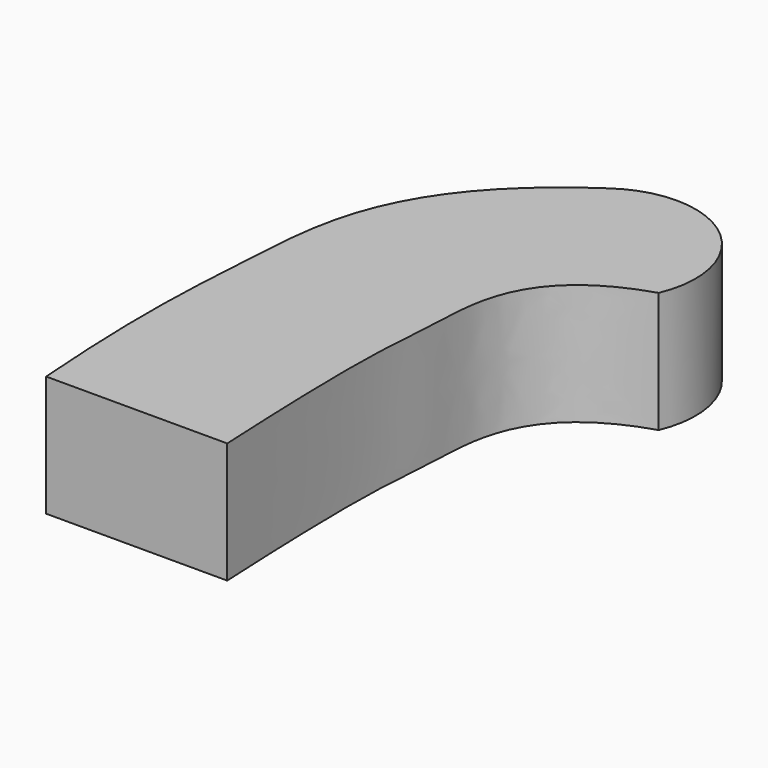
from build123d import *

# Parameters (mm, degrees)
F1_DEPTH = 10


with BuildPart() as f1:
    # F0 (on Top) → F1 (new body)
    with BuildSketch(Plane.XY):
        with BuildLine():
            add(Edge.make_bspline(
                [(-53.6405071616, -21.6123681407), (-54.4413431005, -10.5554619524), (-53.5350097592, -0.9298606358), (-52.9490545808, 14.0803806376), (-41.7034897648, 21.6861946821)],
                knots=[0, 0, 0, 0, 0.4830390059, 1, 1, 1, 1], degree=3))
            Line((-53.6405071616, -21.6123681407), (-38.6405071616, -21.6123681407))
            add(Edge.make_bspline(
                [(-30.0211123594, 12.2775785161), (-38.6405071616, 9.5786619931), (-38.3069088182, -3.5423343633), (-39.4413431005, -5.2964370698), (-38.6405071616, -21.6123681407)],
                knots=[0, 0, 0, 0, 0.4544835552, 1, 1, 1, 1], degree=3))
            ThreePointArc((-30.0211123594, 12.2775785161), (-32.3113588887, 21.3909777857), (-41.7034897648, 21.6861946821))
        make_face()
    extrude(amount=F1_DEPTH)


solid = f1.part
